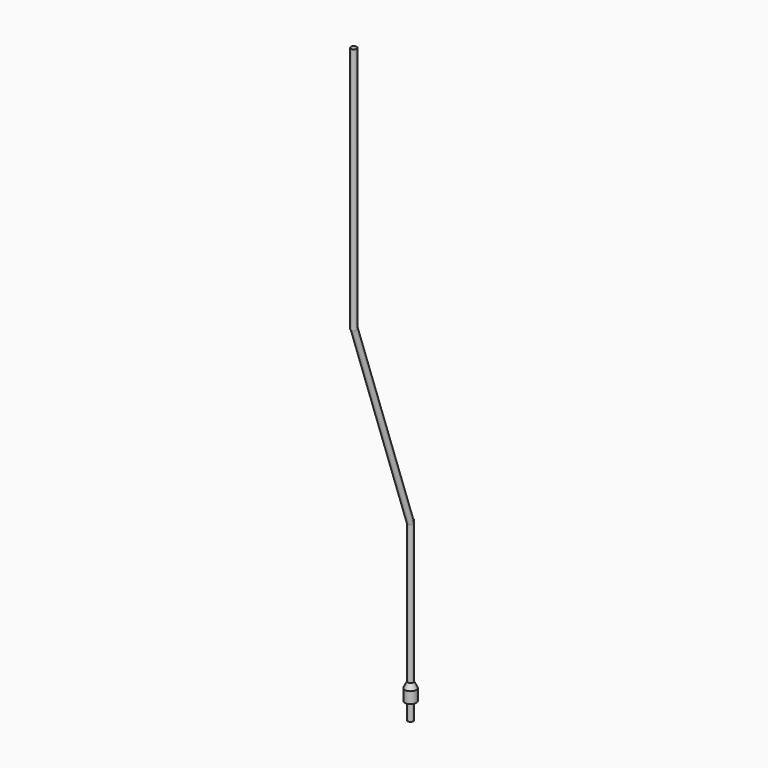
from build123d import *

# Parameters (mm, degrees)
CYLINDER068_R               = 1
CYLINDER068_DEPTH           = 68
CYLINDER068_ROLL_ANGLE      = 13.101784
CYLINDER068_PITCH_ANGLE     = -8.567577
CYLINDER068_PLACEMENT_ANGLE = 13.101784
CYLINDER054_R               = 1
CYLINDER054_DEPTH           = 50
CYLINDER065_R               = 1
CYLINDER065_DEPTH           = 87
CYLINDER052_R               = 2
CYLINDER052_DEPTH           = 4
CYLINDER053_R               = 1
CYLINDER053_DEPTH           = 8


with BuildPart() as cylindre064:
    # Cylinder068 → Cylinder068 (new body)
    with BuildSketch(Plane.XY):
        Circle(CYLINDER068_R)
    extrude(amount=CYLINDER068_DEPTH)


with BuildPart() as cylindre064_1:
    # Cylinder068 roll: moved
    add(cylindre064.part.rotate(Axis((0, 0, 0), (1, 0, 0)), CYLINDER068_ROLL_ANGLE))


with BuildPart() as cylindre064_2:
    # Cylinder068 pitch: moved
    add(cylindre064_1.part.rotate(Axis((0, 0, 0), (0, 1, 0)), CYLINDER068_PITCH_ANGLE))


with BuildPart() as cylindre064_3:
    # Cylinder068 placement: moved
    add(cylindre064_2.part.moved(Location((-32, 9, -55))).rotate(Axis((-32, 9, -55), (0, 0, 1)), CYLINDER068_PLACEMENT_ANGLE))


with BuildPart() as fusion031:
    # Cylinder054 → Cylinder054 (new body)
    with BuildSketch(Plane(origin=(-32, 9, -104), x_dir=(1, 0, 0), z_dir=(0, 0, 1))):
        Circle(CYLINDER054_R)
    extrude(amount=CYLINDER054_DEPTH)

    # Fusion031: union Cylindre064
    add(cylindre064_3.part)


with BuildPart() as fusion032:
    # Cylinder065 → Cylinder065 (new body)
    with BuildSketch(Plane(origin=(-38, -8.4, 10), x_dir=(1, 0, 0), z_dir=(0, 0, 1))):
        Circle(CYLINDER065_R)
    extrude(amount=CYLINDER065_DEPTH)

    # Fusion032: union Fusion031
    add(fusion031.part)


with BuildPart() as obj1:
    # Cone001 → Cone001 (revolve)
    with BuildSketch(Plane(origin=(-32, 9, -106), x_dir=(1, 0, 0), z_dir=(0, -1, 0))):
        Polygon((0, 0), (2, 0), (1, 2), (0, 2), align=None)
    revolve(axis=Axis((-32, 9, -106), (0, 0, 1)))


with BuildPart() as fusion033:
    # Cylinder052 → Cylinder052 (new body)
    with BuildSketch(Plane(origin=(-32, 9, -110), x_dir=(1, 0, 0), z_dir=(0, 0, 1))):
        Circle(CYLINDER052_R)
    extrude(amount=CYLINDER052_DEPTH)

    # Fusion026: union obj1
    add(obj1.part)

    # Fusion033: union Fusion032
    add(fusion032.part)


with BuildPart() as fusion034:
    # Cylinder053 → Cylinder053 (new body)
    with BuildSketch(Plane(origin=(-32, 9, -116), x_dir=(1, 0, 0), z_dir=(0, 0, 1))):
        Circle(CYLINDER053_R)
    extrude(amount=CYLINDER053_DEPTH)

    # Fusion034: union Fusion033
    add(fusion033.part)


solid = fusion034.part
